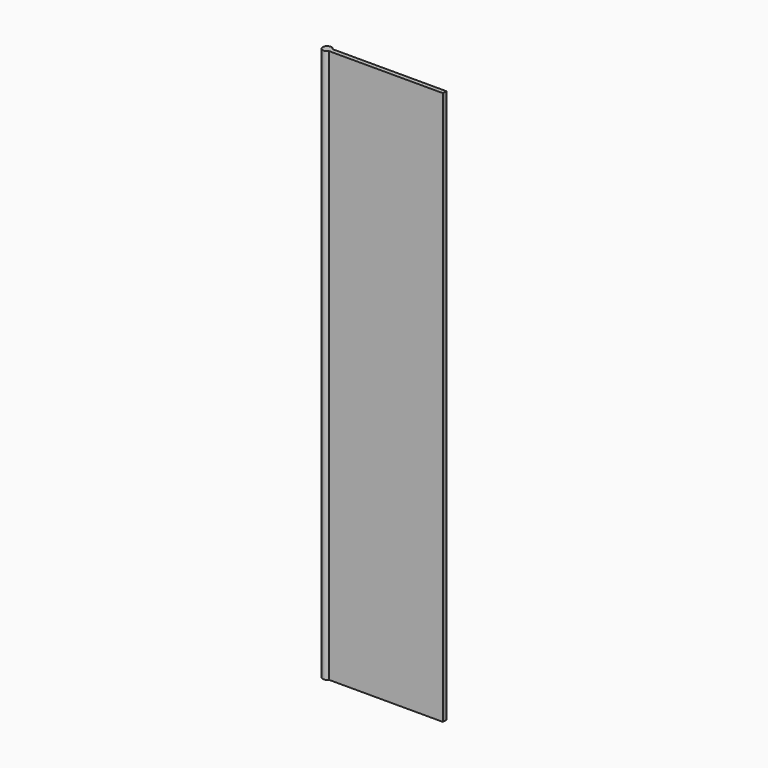
from build123d import *

# Parameters (mm, degrees)
F1_DEPTH = 1219.2


with BuildPart() as f1:
    # F0 (on Top) → F1 (new body, symmetric)
    with BuildSketch(Plane.XY):
        with BuildLine():
            Line((-229.158103, 6.775003), (-229.158103, 25.825003))
            Line((-229.158103, 25.825003), (-222.012266, 25.825003))
            ThreePointArc((-222.012266, 25.825003), (-258.03658, 18.323091), (-223.09847, 6.775003))
            Line((-223.09847, 6.775003), (-229.158103, 6.775003))
        make_face()
        with BuildLine():
            Line((278.841897, 25.825003), (-222.012266, 25.825003))
            ThreePointArc((-222.012266, 25.825003), (-220.48572, 21.651886), (-219.967472, 17.238649))
            ThreePointArc((-219.967472, 17.238649), (-220.766999, 11.777627), (-223.09847, 6.775003))
            Line((-223.09847, 6.775003), (278.841897, 6.775003))
            Line((278.841897, 6.775003), (278.841897, 25.825003))
        make_face()
        with BuildLine():
            Line((-222.012266, 25.825003), (-229.158103, 25.825003))
            Line((-229.158103, 25.825003), (-229.158103, 6.775003))
            Line((-229.158103, 6.775003), (-223.09847, 6.775003))
            ThreePointArc((-223.09847, 6.775003), (-220.766999, 11.777627), (-219.967472, 17.238649))
            ThreePointArc((-219.967472, 17.238649), (-220.48572, 21.651886), (-222.012266, 25.825003))
        make_face()
    extrude(amount=F1_DEPTH, both=True)


solid = f1.part
